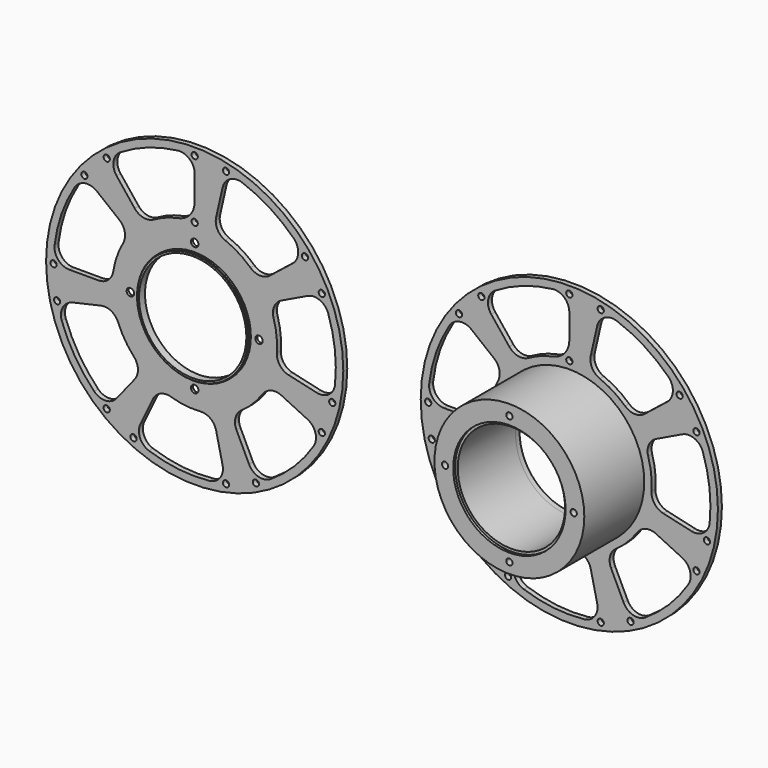
from build123d import *

# Parameters (mm, degrees)
F0_R           = 59.5
F0_R_2         = 1.25
F0_R_3         = 30
F0_R_4         = 22.5
F1_DEPTH       = 2
F0_R_5         = 21.5
F3_DEPTH       = 3
F4_SIZE        = 0.25
F5_D           = 3
F5_CSINK_D     = 5
F5_CSINK_ANGLE = 90
F6_R           = 30
F6_R_2         = 22.5
F7_DEPTH       = 30
F6_R_3         = 21.5
F8_DEPTH       = 29
F8_DEPTH_BACK  = 2
F10_D          = 2.5
F10_DEPTH      = 12
F10_TIP        = 0.7510757738


with BuildPart() as f1:
    # F0 (on Front) → F1 (new body)
    with BuildSketch(Plane.XZ):
        Circle(F0_R)
        with Locations((-35.227173805, -44.1734787594)):
            Circle(F0_R_2, mode=Mode.SUBTRACT)
        with Locations((-24.5144312601, -50.9047410365)):
            Circle(F0_R_2, mode=Mode.SUBTRACT)
        with BuildLine():
            Line((-21.7559275334, -45.1766490254), (-16.7200126232, -34.719463963))
            ThreePointArc((-16.7200126232, -34.719463963), (-13.7269078003, -31.8292394568), (-9.5735533518, -31.5808023365))
            ThreePointArc((-9.5735533518, -31.5808023365), (-3.6948277114, -32.7925029265), (2.3061347504, -32.9193217201))
            ThreePointArc((2.3061347504, -32.9193217201), (6.3000734714, -34.085738314), (8.5749994509, -37.5695273382))
            Line((8.5749994509, -37.5695273382), (11.1577108736, -48.8851254275))
            ThreePointArc((11.1577108736, -48.8851254275), (10.1895124218, -53.7091242702), (5.9388139035, -56.18701353))
            ThreePointArc((5.9388139035, -56.18701353), (-6.3259928998, -56.144739859), (-18.2927021667, -53.4567773761))
            ThreePointArc((-18.2927021667, -53.4567773761), (-21.8854445661, -50.0951445692), (-21.7559275334, -45.1766490254))
        make_face(mode=Mode.SUBTRACT)
        with BuildLine():
            Line((-48.8851254275, -11.1577108736), (-37.5695273382, -8.5749994509))
            ThreePointArc((-37.5695273382, -8.5749994509), (-33.4436884949, -9.113077527), (-30.6598783907, -12.2054027818))
            ThreePointArc((-30.6598783907, -12.2054027818), (-27.9418985745, -17.557058525), (-24.2995106037, -22.3278701273))
            ThreePointArc((-24.2995106037, -22.3278701273), (-22.7212717566, -26.1777060094), (-24.0266145459, -30.1284216889))
            Line((-24.0266145459, -30.1284216889), (-31.2632111419, -39.2028267999))
            ThreePointArc((-31.2632111419, -39.2028267999), (-35.6384271694, -41.4535728516), (-40.2259861796, -39.6751816111))
            ThreePointArc((-40.2259861796, -39.6751816111), (-47.8399172564, -30.0598123231), (-53.1995047533, -19.0279450809))
            ThreePointArc((-53.1995047533, -19.0279450809), (-52.8113126391, -14.123082192), (-48.8851254275, -11.1577108736))
        make_face(mode=Mode.SUBTRACT)
        with Locations((-55.0834270383, -12.5724327685)):
            Circle(F0_R_2, mode=Mode.SUBTRACT)
        with Locations((12.5724327685, -55.0834270383)):
            Circle(F0_R_2, mode=Mode.SUBTRACT)
        with Locations((24.5144312601, -50.9047410365)):
            Circle(F0_R_2, mode=Mode.SUBTRACT)
        with BuildLine():
            Line((21.7559275334, -45.1766490254), (16.7200126232, -34.719463963))
            ThreePointArc((16.7200126232, -34.719463963), (16.3265144458, -30.5773348774), (18.7218526259, -27.1752136009))
            ThreePointArc((18.7218526259, -27.1752136009), (23.3345237792, -23.3345237792), (27.1752136009, -18.7218526259))
            ThreePointArc((27.1752136009, -18.7218526259), (30.5773348774, -16.3265144458), (34.719463963, -16.7200126232))
            Line((34.719463963, -16.7200126232), (45.1766490254, -21.7559275334))
            ThreePointArc((45.1766490254, -21.7559275334), (48.3445413312, -25.5206096469), (47.6315659876, -30.3888782546))
            ThreePointArc((47.6315659876, -30.3888782546), (39.951533137, -39.951533137), (30.3888782546, -47.6315659876))
            ThreePointArc((30.3888782546, -47.6315659876), (25.5206096469, -48.3445413312), (21.7559275334, -45.1766490254))
        make_face(mode=Mode.SUBTRACT)
        with Locations((50.9047410365, -24.5144312601)):
            Circle(F0_R_2, mode=Mode.SUBTRACT)
        with Locations((55.0834270383, -12.5724327685)):
            Circle(F0_R_2, mode=Mode.SUBTRACT)
        with Locations((-56.5, 0)):
            Circle(F0_R_2, mode=Mode.SUBTRACT)
        with BuildLine():
            ThreePointArc((-56.0997982089, 6.7128712871), (-53.3294081624, 18.6607670005), (-48.0459951886, 29.7293179596))
            ThreePointArc((-48.0459951886, 29.7293179596), (-43.9691851404, 32.4839491342), (-39.2028267999, 31.2632111419))
            Line((-39.2028267999, 31.2632111419), (-30.1284216889, 24.0266145459))
            ThreePointArc((-30.1284216889, 24.0266145459), (-27.9766896259, 20.4654176535), (-28.6586896539, 16.3609140125))
            ThreePointArc((-28.6586896539, 16.3609140125), (-31.1481499002, 10.8992090445), (-32.6071288535, 5.0769230769))
            ThreePointArc((-32.6071288535, 5.0769230769), (-34.6330359225, 1.4426728481), (-38.535697736, 0))
            Line((-38.535697736, 0), (-50.1422975142, 0))
            ThreePointArc((-50.1422975142, 0), (-54.6299042106, 2.0173644231), (-56.0997982089, 6.7128712871))
        make_face(mode=Mode.SUBTRACT)
        with Locations((-44.1734787594, 35.227173805)):
            Circle(F0_R_2, mode=Mode.SUBTRACT)
        with Locations((-35.227173805, 44.1734787594)):
            Circle(F0_R_2, mode=Mode.SUBTRACT)
        with BuildLine():
            ThreePointArc((0, 40.2119385258), (-1.8158345398, 35.1368919682), (-6.4390243902, 32.3657066183))
            ThreePointArc((-6.4390243902, 32.3657066183), (-11.5496662933, 30.9128647737), (-16.3609140125, 28.6586896539))
            ThreePointArc((-16.3609140125, 28.6586896539), (-20.4654176535, 27.9766896259), (-24.0266145459, 30.1284216889))
            Line((-24.0266145459, 30.1284216889), (-31.2632111419, 39.2028267999))
            ThreePointArc((-31.2632111419, 39.2028267999), (-32.4839491342, 43.9691851404), (-29.7293179596, 48.0459951886))
            ThreePointArc((-29.7293179596, 48.0459951886), (-18.6607670005, 53.3294081624), (-6.7128712871, 56.0997982089))
            ThreePointArc((-6.7128712871, 56.0997982089), (-2.0173644231, 54.6299042106), (0, 50.1422975142))
            Line((0, 50.1422975142), (0, 40.2119385258))
        make_face(mode=Mode.SUBTRACT)
        Circle(F0_R_3, mode=Mode.SUBTRACT)
        with BuildLine():
            Line((48.8851254275, -11.1577108736), (37.5695273382, -8.5749994509))
            ThreePointArc((37.5695273382, -8.5749994509), (34.085738314, -6.3000734714), (32.9193217201, -2.3061347504))
            ThreePointArc((32.9193217201, -2.3061347504), (32.7925029265, 3.6948277114), (31.5808023365, 9.5735533518))
            ThreePointArc((31.5808023365, 9.5735533518), (31.8292394568, 13.7269078003), (34.719463963, 16.7200126232))
            Line((34.719463963, 16.7200126232), (45.1766490254, 21.7559275334))
            ThreePointArc((45.1766490254, 21.7559275334), (50.0951445692, 21.8854445661), (53.4567773761, 18.2927021667))
            ThreePointArc((53.4567773761, 18.2927021667), (56.144739859, 6.3259928998), (56.18701353, -5.9388139035))
            ThreePointArc((56.18701353, -5.9388139035), (53.7091242702, -10.1895124218), (48.8851254275, -11.1577108736))
        make_face(mode=Mode.SUBTRACT)
        with Locations((50.9047410365, 24.5144312601)):
            Circle(F0_R_2, mode=Mode.SUBTRACT)
        with Locations((0, 33)):
            Circle(F0_R_2, mode=Mode.SUBTRACT)
        with BuildLine():
            Line((39.2028267999, 31.2632111419), (30.1284216889, 24.0266145459))
            ThreePointArc((30.1284216889, 24.0266145459), (26.1777060094, 22.7212717566), (22.3278701273, 24.2995106037))
            ThreePointArc((22.3278701273, 24.2995106037), (17.557058525, 27.9418985745), (12.2054027818, 30.6598783907))
            ThreePointArc((12.2054027818, 30.6598783907), (9.113077527, 33.4436884949), (8.5749994509, 37.5695273382))
            Line((8.5749994509, 37.5695273382), (11.1577108736, 48.8851254275))
            ThreePointArc((11.1577108736, 48.8851254275), (14.123082192, 52.8113126391), (19.0279450809, 53.1995047533))
            ThreePointArc((19.0279450809, 53.1995047533), (30.0598123231, 47.8399172564), (39.6751816111, 40.2259861796))
            ThreePointArc((39.6751816111, 40.2259861796), (41.4535728516, 35.6384271694), (39.2028267999, 31.2632111419))
        make_face(mode=Mode.SUBTRACT)
        with Locations((0, 56.5)):
            Circle(F0_R_2, mode=Mode.SUBTRACT)
        with Locations((12.5724327685, 55.0834270383)):
            Circle(F0_R_2, mode=Mode.SUBTRACT)
        with Locations((44.1734787594, 35.227173805)):
            Circle(F0_R_2, mode=Mode.SUBTRACT)
        Circle(F0_R_3)
        Circle(F0_R_4, mode=Mode.SUBTRACT)
    extrude(amount=F1_DEPTH)


with BuildPart() as f2_1:
    # F2: copy of F1
    add(f1.part.moved(Location((150, 0, 0))))

    # F6 (on face) → F7 (join)
    with BuildSketch(Plane.XZ.offset(2)):
        with Locations((150, 0)):
            Circle(F6_R)
        with Locations((150, 0)):
            Circle(F6_R_2, mode=Mode.SUBTRACT)
    extrude(amount=F7_DEPTH)

    # F6 (on face) → F8 (join, two sides)
    with BuildSketch(Plane.XZ.offset(2)) as f8_sk:
        with Locations((150, 0)):
            Circle(F6_R_2)
        with Locations((150, 0)):
            Circle(F6_R_3, mode=Mode.SUBTRACT)
    extrude(amount=F8_DEPTH)
    extrude(f8_sk.sketch, amount=-F8_DEPTH_BACK)

    # F10
    with Locations(Plane.XZ.offset(32)):
        with Locations((175.7485309243, 0), (124.2468482256, 0), (150, 25.7501158491), (150, -25.7525922358)):
            Hole(F10_D / 2, depth=F10_DEPTH)
            with Locations((0, 0, -(F10_DEPTH + F10_TIP / 2))):  # 118° drill point
                Cone(0, F10_D / 2, F10_TIP, mode=Mode.SUBTRACT)


with BuildPart() as f1_1:
    add(f1.part)

    # F0 (on Front) → F3 (join)
    with BuildSketch(Plane.XZ):
        Circle(F0_R_4)
        Circle(F0_R_5, mode=Mode.SUBTRACT)
    extrude(amount=F3_DEPTH)

    # F4
    f4_edges = [f1_1.edges().sort_by_distance(p)[0] for p in [
        (-22.5, -3, 0),
    ]]
    chamfer(f4_edges, length=F4_SIZE)

    # F5 (through all)
    with Locations(Plane(origin=(0, 0, 0), x_dir=(1, 0, 0), z_dir=(0, 1, 0))):
        with Locations((25.75, 0), (0, 25.75), (-25.75, 0), (0, -25.75)):
            CounterSinkHole(F5_D / 2, F5_CSINK_D / 2, counter_sink_angle=F5_CSINK_ANGLE)


solid = Compound([f2_1.part, f1_1.part])
